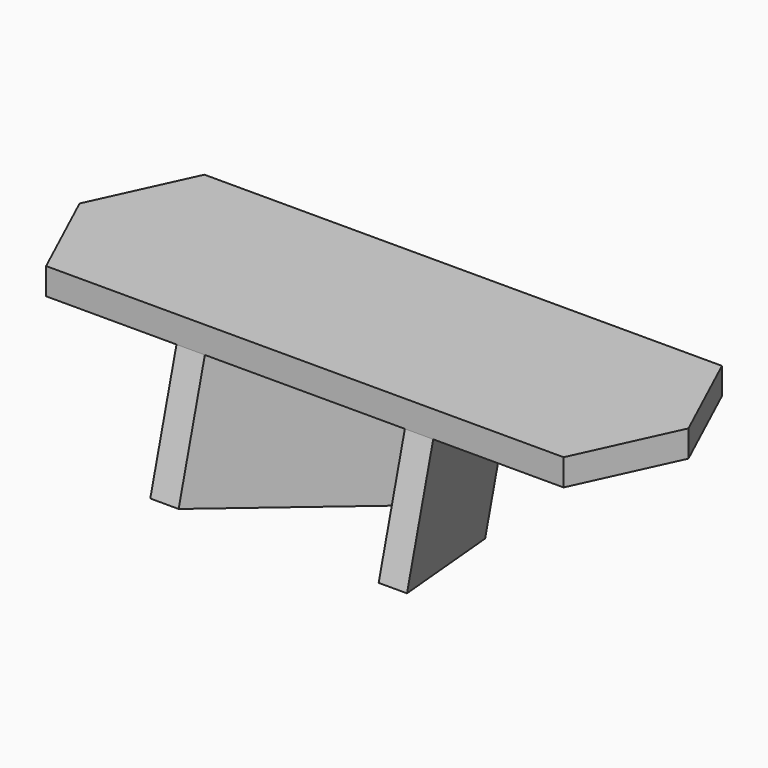
from build123d import *

# Parameters (mm, degrees)
F1_DEPTH = 22.225


with BuildPart() as f1:
    # F0 (on Top) → F1 (new body)
    with BuildSketch(Plane.XY):
        Polygon((215.9, 82.55), (-215.9, 82.55), (-254, 0), (-215.9, -82.55), (215.9, -82.55), (254, 0), align=None)
    extrude(amount=F1_DEPTH)


with BuildPart() as f5:
    # F4 (on offset) → F5 (new body, up to the next surface of F1)
    with BuildSketch(Plane(origin=(0, -32.870018728, -122.6725799387), x_dir=(1, 0, 0), z_dir=(0, 0.2588190451, 0.9659258263))):
        Polygon((-49.0513509933, 79.7371769602), (-107.0952689491, -79.7371769602), (-83.4439179558, -79.7371769602), (-25.4, 79.7371769602), align=None)
    extrude(until=Until.NEXT, target=f1.part)


with BuildPart() as f5b:
    # F4 (on offset) → F5, piece 2 (new body, up to the next surface of F1)
    with BuildSketch(Plane(origin=(0, -32.870018728, -122.6725799387), x_dir=(1, 0, 0), z_dir=(0, 0.2588190451, 0.9659258263))):
        Polygon((25.4, 79.7371769602), (83.4439179558, -79.7371769602), (107.0952689491, -79.7371769602), (49.0513509933, 79.7371769602), align=None)
    extrude(until=Until.NEXT, target=f1.part)


solid = Compound([f1.part, f5.part, f5b.part])
